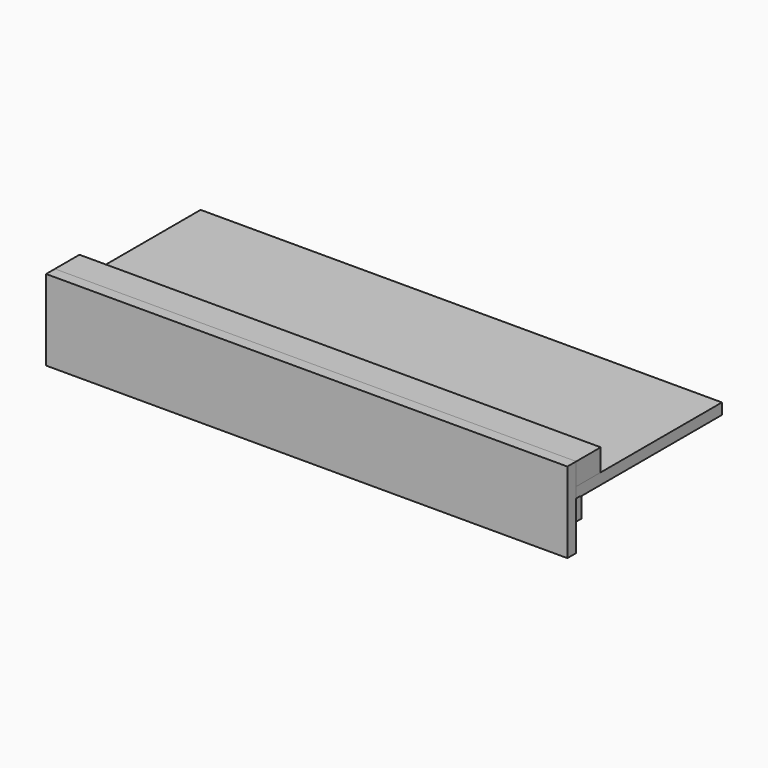
from build123d import *

# Parameters (mm, degrees)
F7_DEPTH  = 425
F3_W      = 50
F3_H      = 36
F4_W      = 18
F4_H      = 131.5
F0_W      = 230
F0_H      = 4
F8_DEPTH  = 419
F10_DEPTH = 18


with BuildPart() as f7:
    # F2 (on Right) → F7 (new body, symmetric)
    with BuildSketch(Plane.YZ):
        Polygon((-10, 4), (279, 4), (279, 22), (-18, 22), (-18, 5), (-10, 5), align=None)
    extrude(amount=F7_DEPTH, both=True)


with BuildPart() as f7b:
    # F3 (on Right) → F7, piece 2 (new body, symmetric)
    with BuildSketch(Plane.YZ):
        with Locations((7, 40)):
            Rectangle(F3_W, F3_H)
    extrude(amount=F7_DEPTH, both=True)


with BuildPart() as f7c:
    # F4 (on Right) → F7, piece 3 (new body, symmetric)
    with BuildSketch(Plane.YZ):
        with Locations((-27, -7.75)):
            Rectangle(F4_W, F4_H)
    extrude(amount=F7_DEPTH, both=True)


with BuildPart() as f8:
    # F0 (on Right) → F8 (new body, symmetric)
    with BuildSketch(Plane.YZ):
        with Locations((104, 2)):
            Rectangle(F0_W, F0_H)
    extrude(amount=F8_DEPTH, both=True)


with BuildPart() as f8b:
    # F1 (on Right) → F8, piece 2 (new body, symmetric)
    with BuildSketch(Plane.YZ):
        Polygon((-11, 0), (-11, 4.5), (-18, 4.5), (-18, -33.5), (0, -33.5), (0, 0), align=None)
    extrude(amount=F8_DEPTH, both=True)


with BuildPart() as f10:
    # F9 (on face) → F10 (new body)
    with BuildSketch(Plane(origin=(0, -18, 0), x_dir=(-1, 0, 0), z_dir=(0, 1, 0))):
        Polygon((50, -33.5), (-50, -33.5), (-50, -36.7050807569), (50, -63.5), align=None)
    extrude(amount=F10_DEPTH)


solid = Compound([f7.part, f7b.part, f7c.part, f8.part, f8b.part, f10.part])
